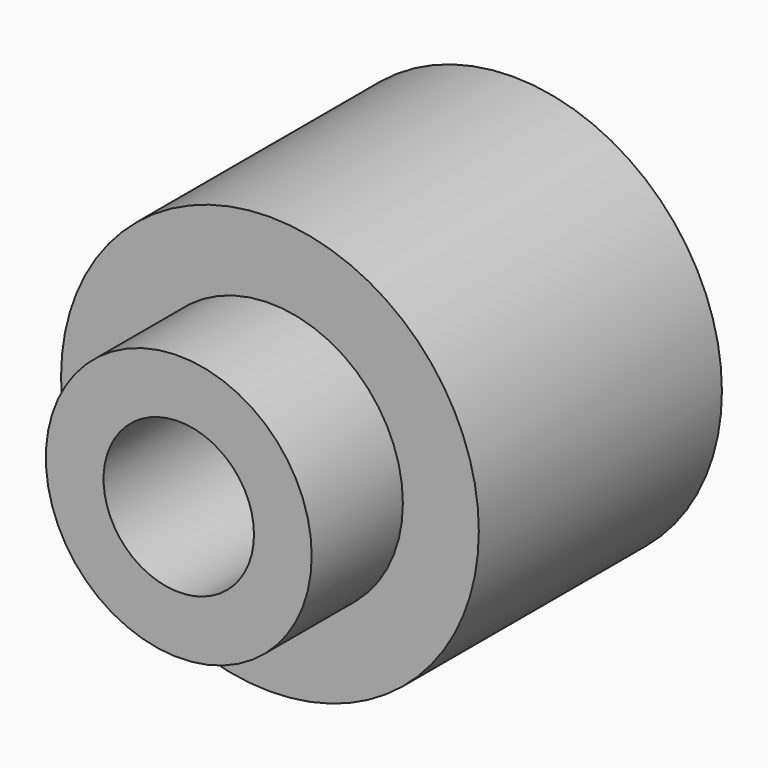
from build123d import *

# Parameters (mm, degrees)
CYLINDER001_R          = 1.98
CYLINDER001_DEPTH      = 11
CYLINDER001_ROLL_ANGLE = -90
CYLINDER004_R          = 3.5
CYLINDER004_DEPTH      = 3
CYLINDER004_ROLL_ANGLE = 90
CYLINDER_R             = 5.5
CYLINDER_DEPTH         = 8
CYLINDER_ROLL_ANGLE    = -90


with BuildPart() as f_10_32_tap_hole:
    # Cylinder001 → Cylinder001 (new body)
    with BuildSketch(Plane.XY):
        Circle(CYLINDER001_R)
    extrude(amount=CYLINDER001_DEPTH)


with BuildPart() as f_10_32_tap_hole_1:
    # Cylinder001 roll: moved
    add(f_10_32_tap_hole.part.rotate(Axis((0, 0, 0), (1, 0, 0)), CYLINDER001_ROLL_ANGLE))


with BuildPart() as f_10_32_tap_hole_2:
    # Cylinder001 placement: moved
    add(f_10_32_tap_hole_1.part.moved(Location((17.5, -3, 6))))


with BuildPart() as thin_neck:
    # Cylinder004 → Cylinder004 (new body)
    with BuildSketch(Plane.XY):
        Circle(CYLINDER004_R)
    extrude(amount=CYLINDER004_DEPTH)


with BuildPart() as thin_neck_1:
    # Cylinder004 roll: moved
    add(thin_neck.part.rotate(Axis((0, 0, 0), (1, 0, 0)), CYLINDER004_ROLL_ANGLE))


with BuildPart() as thin_neck_2:
    # Cylinder004 placement: moved
    add(thin_neck_1.part.moved(Location((17.5, 0, 6))))


with BuildPart() as f_10_32_support_neck_and_taphole:
    # Cylinder → Cylinder (new body)
    with BuildSketch(Plane.XY):
        Circle(CYLINDER_R)
    extrude(amount=CYLINDER_DEPTH)


with BuildPart() as f_10_32_support_neck_and_taphole_1:
    # Cylinder roll: moved
    add(f_10_32_support_neck_and_taphole.part.rotate(Axis((0, 0, 0), (1, 0, 0)), CYLINDER_ROLL_ANGLE))


with BuildPart() as f_10_32_support_neck_and_taphole_2:
    # Cylinder placement: moved
    add(f_10_32_support_neck_and_taphole_1.part.moved(Location((17.5, 0, 6))))

    # Fusion002: union thin_neck
    add(thin_neck_2.part)

    # Cut: cut 10-32_tap_hole
    add(f_10_32_tap_hole_2.part, mode=Mode.SUBTRACT)


solid = f_10_32_support_neck_and_taphole_2.part
